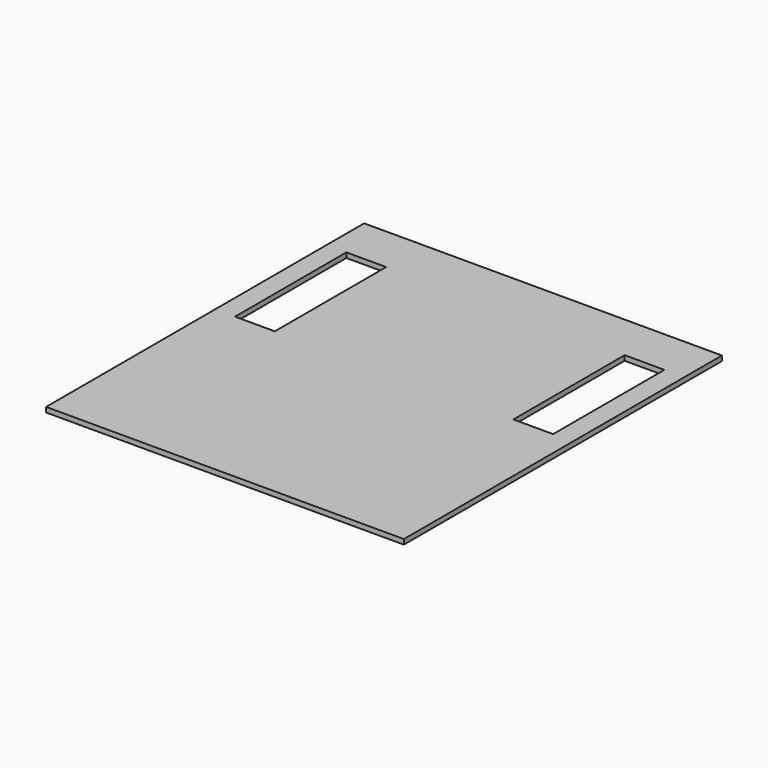
from build123d import *

# Parameters (mm, degrees)
F0_W     = 228.6
F0_H     = 254
F1_DEPTH = 3.175
F2_W     = 25.4
F2_H     = 88.9
F3_DEPTH = 25.4


with BuildPart() as f1:
    # F0 (on Top) → F1 (new body)
    with BuildSketch(Plane.XY):
        Rectangle(F0_W, F0_H)
    extrude(amount=F1_DEPTH)

    # F2 (on face) → F3 (cut)
    with BuildSketch(Plane.XY.offset(3.175)):
        with Locations((-88.9, 52.499929)):
            Rectangle(F2_W, F2_H)
        with Locations((88.9, 52.499929)):
            Rectangle(F2_W, F2_H)
    extrude(amount=-F3_DEPTH, mode=Mode.SUBTRACT)


solid = f1.part
